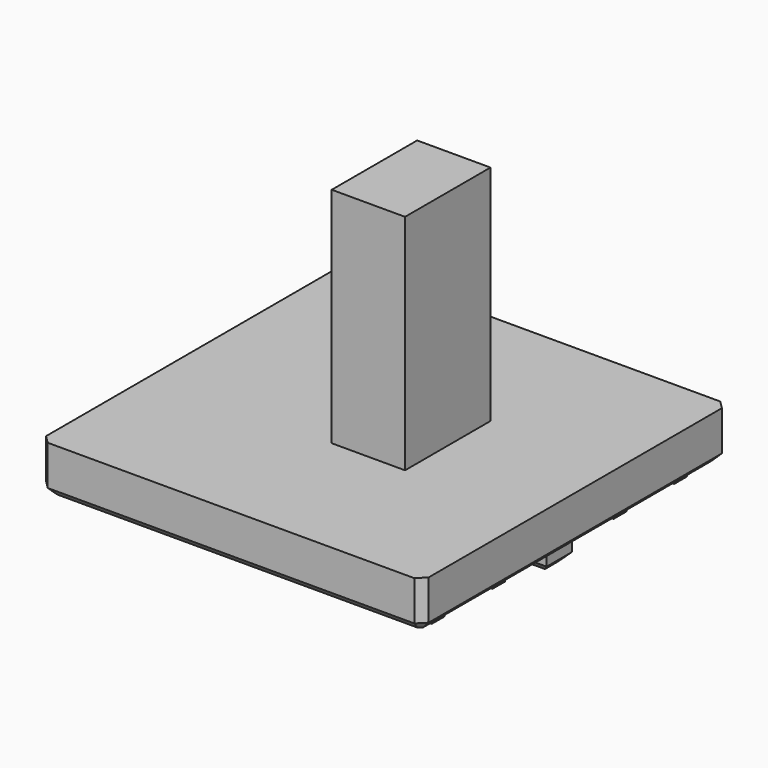
from build123d import *

# Parameters (mm, degrees)
SKETCH_W            = 12
SKETCH_H            = 12
PAD_DEPTH           = 1.5
SKETCH001_W         = 2.3
SKETCH001_H         = 3.35
PAD001_DEPTH        = 7
SKETCH002_W         = 11
SKETCH002_H         = 0.5
PAD002_DEPTH        = 0.25
LINEARPATTERN_COUNT = 5
LINEARPATTERN_PITCH = 2.375
SKETCH003_W         = 11
SKETCH003_H         = 1
PAD003_DEPTH        = 0.75
CHAMFER_SIZE        = 0.25
CHAMFER001_SIZE     = 0.25
CHAMFER002_SIZE     = 0.25


with BuildPart() as part:
    # Sketch → Pad (new body)
    with BuildSketch(Plane.XY):
        Rectangle(SKETCH_W, SKETCH_H)
    extrude(amount=PAD_DEPTH)

    # Sketch001 → Pad001 (join)
    with BuildSketch(Plane.XY.offset(1.5)):
        with Locations((0.85, 0)):
            Rectangle(SKETCH001_W, SKETCH001_H)
    extrude(amount=PAD001_DEPTH)

    # Sketch002 (on DatumPlane) → Pad002 (join)
    with BuildSketch(Plane(origin=(0, 0, 0), x_dir=(1, 0, 0), z_dir=(0, 0, -1))):
        with Locations((0, 4.75)):
            Rectangle(SKETCH002_W, SKETCH002_H)
    pad002 = extrude(amount=PAD002_DEPTH)

    # LinearPattern: Pad002 ×5
    with Locations(*[(0, i * LINEARPATTERN_PITCH, 0) for i in range(1, LINEARPATTERN_COUNT)]):
        add(pad002)

    # Sketch003 (on DatumPlane) → Pad003 (join)
    with BuildSketch(Plane(origin=(0, 0, 0), x_dir=(1, 0, 0), z_dir=(0, 0, -1))):
        Rectangle(SKETCH003_W, SKETCH003_H)
    extrude(amount=PAD003_DEPTH)

    # Chamfer
    chamfer_edges = [part.edges().sort_by_distance(p)[0] for p in [
        (5.5, 0, -0.75),
        (0, 0.5, -0.75),
        (0, -0.5, -0.75),
        (-5.5, 0, -0.75),
    ]]
    chamfer(chamfer_edges, length=CHAMFER_SIZE)

    # Chamfer001
    chamfer001_edges = [part.edges().sort_by_distance(p)[0] for p in [
        (6, -6, 0.75),
        (-6, -6, 0.75),
        (-6, 6, 0.75),
        (6, 6, 0.75),
    ]]
    chamfer(chamfer001_edges, length=CHAMFER001_SIZE)

    # Chamfer002
    chamfer002_edges = [part.edges().sort_by_distance(p)[0] for p in [
        (0, -6, 0),
        (6, 0, 0),
        (5.875, -5.875, 0),
        (-5.875, -5.875, 0),
        (-6, 0, 0),
        (0, 6, 0),
        (-5.875, 5.875, 0),
        (5.875, 5.875, 0),
    ]]
    chamfer(chamfer002_edges, length=CHAMFER002_SIZE)


solid = part.part
